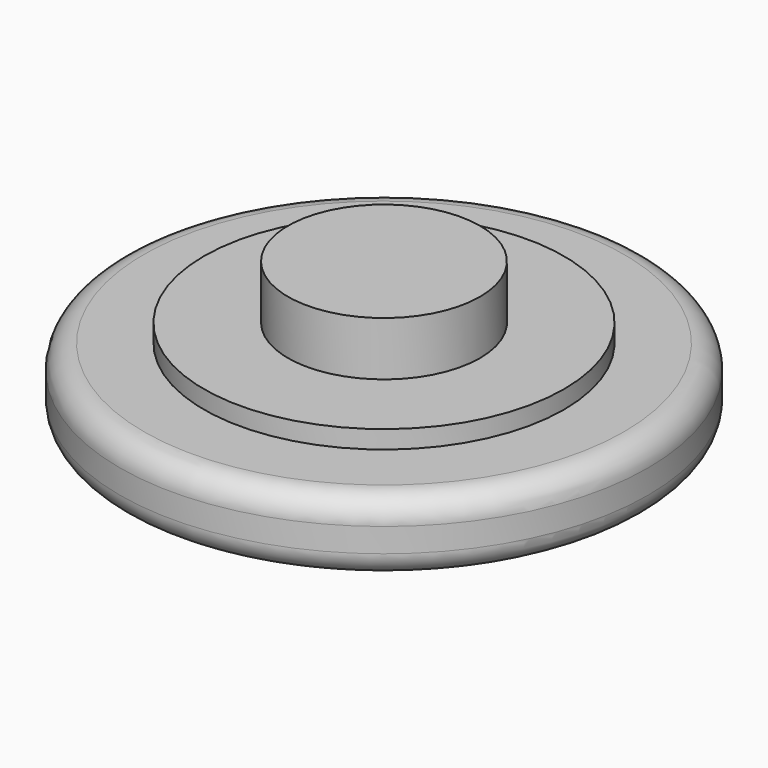
from build123d import *

# Parameters (mm, degrees)
F0_R     = 11
F0_R_2   = 7.5
F1_DEPTH = 3
F0_R_3   = 4
F2_DEPTH = 3.75
F3_DEPTH = 6
F4_R     = 1


with BuildPart() as f1:
    # F0 (on Top) → F1 (new body)
    with BuildSketch(Plane.XY):
        Circle(F0_R)
        Circle(F0_R_2, mode=Mode.SUBTRACT)
    extrude(amount=F1_DEPTH)

    # F0 (on Top) → F2 (join)
    with BuildSketch(Plane.XY):
        Circle(F0_R_2)
        Circle(F0_R_3, mode=Mode.SUBTRACT)
    extrude(amount=F2_DEPTH)

    # F0 (on Top) → F3 (join)
    with BuildSketch(Plane.XY):
        Circle(F0_R_3)
    extrude(amount=F3_DEPTH)

    # F4
    f4_edges = [f1.edges().sort_by_distance(p)[0] for p in [
        (-11, 0, 0),
        (-11, 0, 3),
    ]]
    fillet(f4_edges, radius=F4_R)


solid = f1.part
